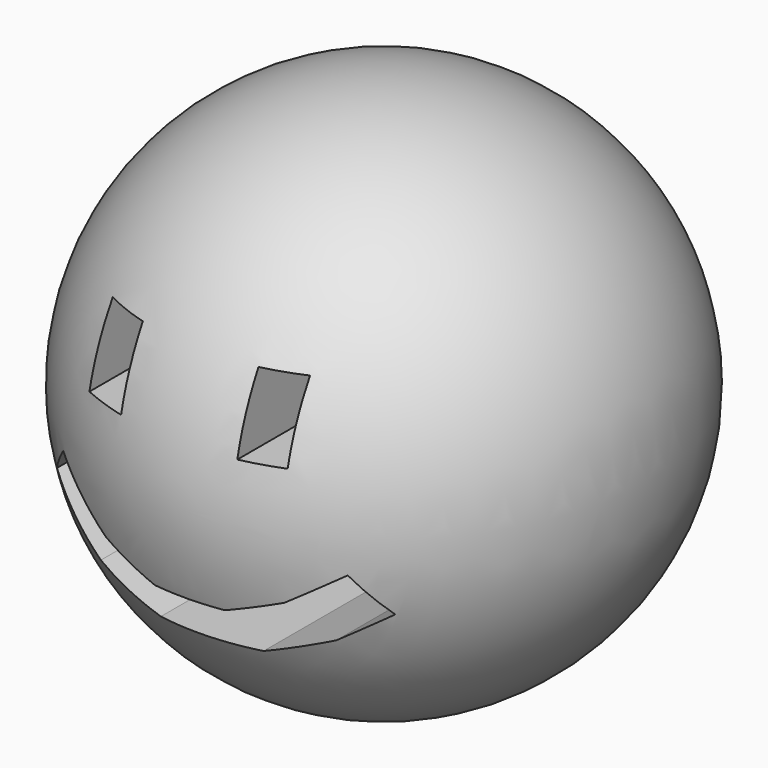
from build123d import *

# Parameters (mm, degrees)
F2_W     = 5.461
F2_H     = 8.89
F3_DEPTH = 32.895429
F5_DEPTH = 32.895429
F7_DEPTH = 32.895429


with BuildPart() as f1:
    # F0 (on Top) → F1 (revolve)
    with BuildSketch(Plane.XY):
        with BuildLine():
            Line((0, 32.894429), (0, -32.894429))
            ThreePointArc((0, -32.894429), (32.894429, 0), (0, 32.894429))
        make_face()
    revolve(axis=Axis((0, 0, 0), (0, -1, 0)))

    # F2 (on Front) → F3 (cut, through all)
    with BuildSketch(Plane.XZ):
        with Locations((-10.487013, 11.237753)):
            Rectangle(F2_W, F2_H)
    extrude(amount=F3_DEPTH, mode=Mode.SUBTRACT)

    # F4 (on Front) → F5 (cut, through all)
    with BuildSketch(Plane.XZ):
        Polygon((11.933651, 15.546253), (6.895673, 15.557211), (6.895673, 6.736375), (11.933651, 6.736375), align=None)
    extrude(amount=F5_DEPTH, mode=Mode.SUBTRACT)

    # F6 (on Front) → F7 (cut, through all)
    with BuildSketch(Plane.XZ):
        Polygon((-10.553785, -7.94562), (-17.987287, -1.999777), (-21.413613, -6.356075), (-13.522841, -12.667675), (-4.894031, -15.459277), (7.455942, -15.459277), (15.173362, -12.460908), (20.658924, -8.790475), (17.52286, -4.103541), (11.391848, -8.20585), (4.74029, -10.79227), (-3.879014, -10.79227), align=None)
    extrude(amount=F7_DEPTH, mode=Mode.SUBTRACT)


solid = f1.part
